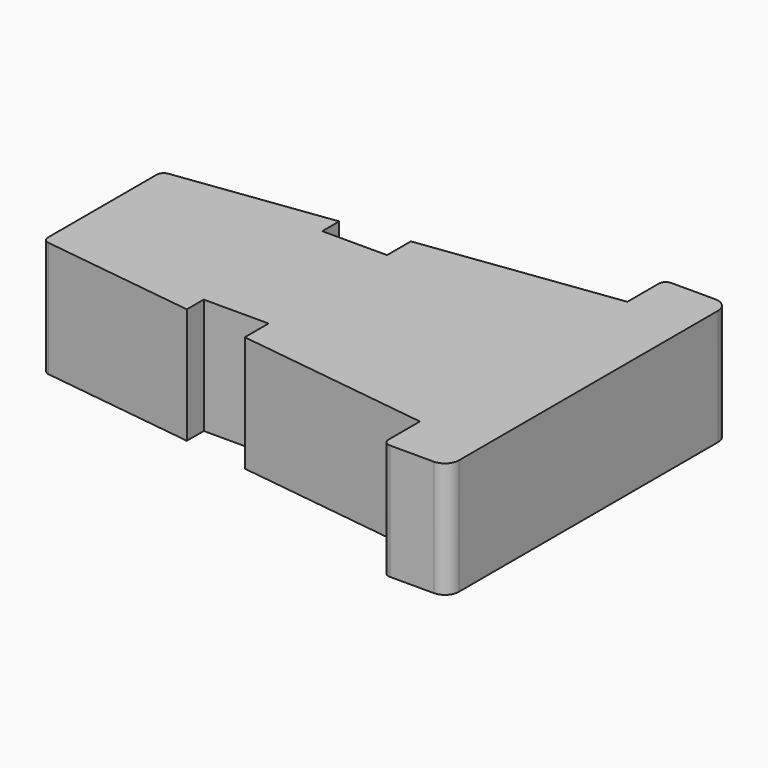
from build123d import *

# Parameters (mm, degrees)
F1_DEPTH = 25


with BuildPart() as f1:
    # F0 (on Top) → F1 (new body)
    with BuildSketch(Plane.XY):
        with BuildLine():
            Line((56.300399, -20.339935), (56.300399, 49.660065))
            ThreePointArc((56.300399, 49.660065), (55.421719, 51.781386), (53.300399, 52.660065))
            Line((53.300399, 52.660065), (43.800399, 52.660065))
            ThreePointArc((43.800399, 52.660065), (42.739739, 52.220726), (42.300399, 51.160065))
            Line((42.300399, 51.160065), (42.300399, 42.660065))
            Line((42.300399, 42.660065), (0, 37.081991))
            Line((0, 37.081991), (0, 30.660065))
            Line((0, 30.660065), (-14, 30.660065))
            Line((-14, 30.660065), (-14, 35.235837))
            Line((-14, 35.235837), (-47.395706, 30.832008))
            ThreePointArc((-47.395706, 30.832008), (-48.327466, 30.333781), (-48.699601, 29.344882))
            Line((-48.699601, 29.344882), (-48.699601, 14.660065))
            Line((-48.699601, 14.660065), (-48.699601, -0.024751))
            ThreePointArc((-48.699601, -0.024751), (-48.327466, -1.01365), (-47.395706, -1.511877))
            Line((-47.395706, -1.511877), (-14, -5.915706))
            Line((-14, -5.915706), (-14, -1.339935))
            Line((-14, -1.339935), (0, -1.339935))
            Line((0, -1.339935), (0, -7.76186))
            Line((0, -7.76186), (42.300399, -13.339935))
            Line((42.300399, -13.339935), (42.300399, -21.839935))
            ThreePointArc((42.300399, -21.839935), (42.739739, -22.900595), (43.800399, -23.339935))
            Line((43.800399, -23.339935), (53.300399, -23.339935))
            ThreePointArc((53.300399, -23.339935), (55.421719, -22.461255), (56.300399, -20.339935))
        make_face()
    extrude(amount=F1_DEPTH)


solid = f1.part
